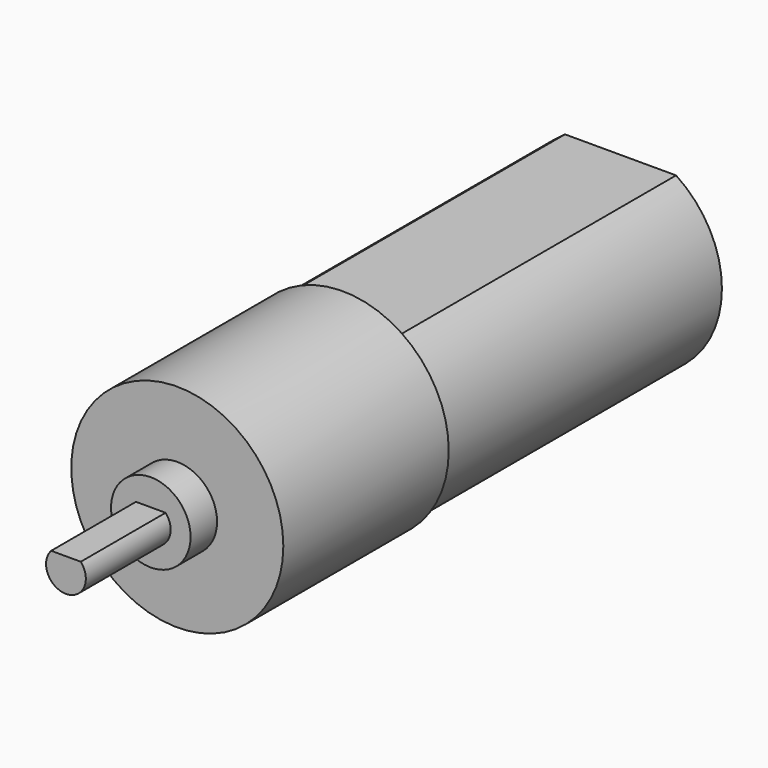
from build123d import *

# Parameters (mm, degrees)
F1_DEPTH = 26.2
F2_R     = 8
F3_DEPTH = 15.6
F5_DEPTH = 10.5
F6_R     = 3
F7_DEPTH = 2.5
F8_R     = 1.944472
F9_DEPTH = 20


with BuildPart() as f1:
    # F0 (on Front) → F1 (new body)
    with BuildSketch(Plane.XZ):
        with BuildLine():
            Line((4.190764, 6.4), (-4.190764, 6.4))
            ThreePointArc((-4.190764, 6.4), (-7.65, 0), (-4.190764, -6.4))
            Line((-4.190764, -6.4), (4.190764, -6.4))
            ThreePointArc((4.190764, -6.4), (7.65, 0), (4.190764, 6.4))
        make_face()
    extrude(amount=-F1_DEPTH)

    # F2 (on face) → F3 (join)
    with BuildSketch(Plane.XZ):
        Circle(F2_R)
    extrude(amount=F3_DEPTH)

    # F4 (on face) → F5 (join)
    with BuildSketch(Plane.XZ.offset(15.6)):
        with BuildLine():
            Line((1.118034, 1), (-1.118034, 1))
            ThreePointArc((-1.118034, 1), (0, -1.5), (1.118034, 1))
        make_face()
    extrude(amount=F5_DEPTH)

    # F6 (on face) → F7 (join)
    with BuildSketch(Plane.XZ.offset(15.6)):
        Circle(F6_R)
    extrude(amount=F7_DEPTH)

    # F8 (on face) → F9 (cut)
    with BuildSketch(Plane.XZ.offset(15.6)):
        with Locations((-13.127005, 0)):
            Circle(F8_R)
        with Locations((13.127005, 0)):
            Circle(F8_R)
    extrude(amount=-F9_DEPTH, mode=Mode.SUBTRACT)


solid = f1.part
